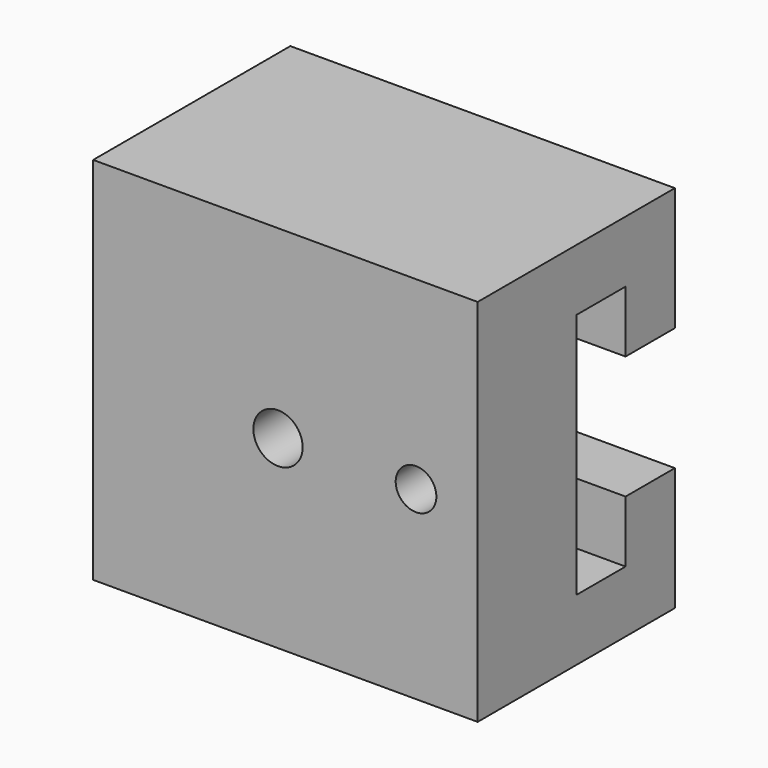
from build123d import *

# Parameters (mm, degrees)
F0_W           = 5
F0_H           = 5
F1_DEPTH       = 200
F3_DEPTH       = 1.2
F5_D           = 4
F5_CSINK_D     = 8.7
F5_CSINK_ANGLE = 90
F6_DEPTH       = 170
F8_DEPTH       = 25


with BuildPart() as f1:
    # F0 (on Right) → F1 (new body)
    with BuildSketch(Plane.YZ):
        Polygon((0, 30), (0, 15), (6.1031254008, 15), (10, 15), (10, 25), (15, 25), (20, 25), (20, 30), align=None)
        with Locations((17.5, 22.5)):
            Rectangle(F0_W, F0_H)
        with Locations((17.5, 7.5)):
            Rectangle(F0_W, F0_H)
        Polygon((0, 15), (0, 0), (20, 0), (20, 5), (15, 5), (10, 5), (10, 15), (6.1031254008, 15), align=None)
    extrude(amount=F1_DEPTH)

    # F2 (on face) → F3 (join)
    with BuildSketch(Plane.YZ.offset(200)):
        Polygon((20, 30), (0, 30), (0, 0), (20, 0), (20, 10), (15, 10), (15, 5), (10, 5), (10, 25), (15, 25), (15, 20), (20, 20), align=None)
        Polygon((20, 10), (20, 20), (15, 20), (15, 25), (10, 25), (10, 5), (15, 5), (15, 10), align=None)
    extrude(amount=F3_DEPTH)

    # F5 (through all)
    with Locations(Plane(origin=(0, 10, 0), x_dir=(-1, 0, 0), z_dir=(0, 1, 0))):
        with Locations((-15, 15), (-185, 15), (-100, 15)):
            CounterSinkHole(F5_D / 2, F5_CSINK_D / 2, counter_sink_angle=F5_CSINK_ANGLE)

    # F6 (cut): a face of the model
    f6_faces = [f1.faces().sort_by_distance(p)[0] for p in [
        (201.2, 10, 15),
    ]]
    extrude(f6_faces, amount=-F6_DEPTH, mode=Mode.SUBTRACT)

    # F7 (on face) → F8 (cut)
    with BuildSketch(Plane(origin=(0, 10, 0), x_dir=(-1, 0, 0), z_dir=(0, 1, 0))):
        with BuildLine():
            ThreePointArc((-27.85, 15), (-26.2, 13.35), (-24.55, 15))
            ThreePointArc((-24.55, 15), (-26.2, 16.65), (-27.85, 15))
        make_face()
        with BuildLine():
            ThreePointArc((-24.55, 15), (-26.2, 16.65), (-27.85, 15))
            ThreePointArc((-27.85, 15), (-26.2, 13.35), (-24.55, 15))
        make_face()
    extrude(amount=-F8_DEPTH, mode=Mode.SUBTRACT)


solid = f1.part
